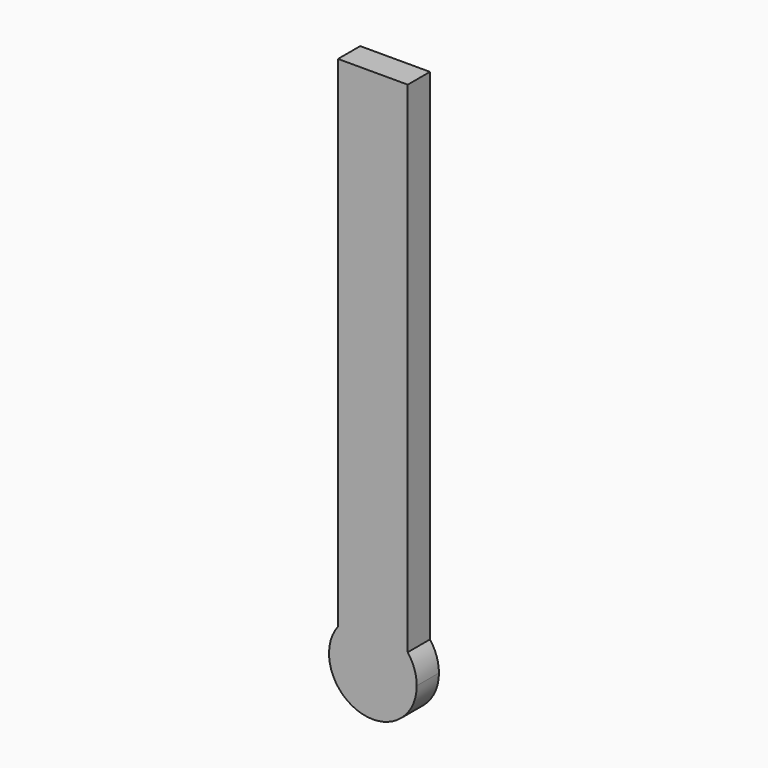
from build123d import *

# Parameters (mm, degrees)
F1_DEPTH = 12.7


with BuildPart() as f1:
    # F0 (on Front) → F1 (new body)
    with BuildSketch(Plane.XZ):
        with BuildLine():
            ThreePointArc((-15.9528, 12.168002), (0, 20.063701), (15.9528, 12.168002))
            Line((15.9528, 12.168002), (15.9528, 240.768002))
            Line((15.9528, 240.768002), (-15.9528, 240.768002))
            Line((-15.9528, 240.768002), (-15.9528, 12.168002))
        make_face()
        with BuildLine():
            Line((-15.9528, 12.168002), (15.9528, 12.168002))
            ThreePointArc((15.9528, 12.168002), (0, 20.063701), (-15.9528, 12.168002))
        make_face()
        with BuildLine():
            ThreePointArc((-15.9528, 12.168002), (-6.421834, -19.008213), (20.063701, 0))
            ThreePointArc((20.063701, 0), (19.008213, 6.421834), (15.9528, 12.168002))
            Line((15.9528, 12.168002), (-15.9528, 12.168002))
        make_face()
    extrude(amount=F1_DEPTH)


solid = f1.part
